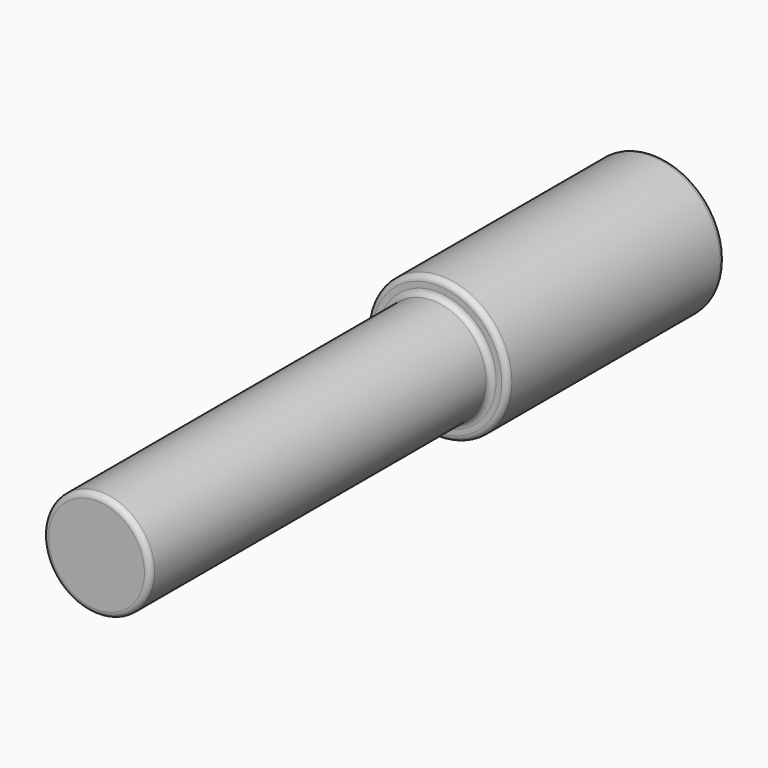
from build123d import *

# Parameters (mm, degrees)
F0_R     = 19
F1_DEPTH = 151
F2_R     = 25
F3_DEPTH = 96.5
F4_R     = 2


with BuildPart() as f1:
    # F0 (on Front) → F1 (new body)
    with BuildSketch(Plane.XZ):
        Circle(F0_R)
    extrude(amount=F1_DEPTH)

    # F2 (on Front) → F3 (join)
    with BuildSketch(Plane.XZ):
        with Locations((-0.022302, 0.055295)):
            Circle(F2_R)
    extrude(amount=-F3_DEPTH)

    # F4
    f4_edges = [f1.edges().sort_by_distance(p)[0] for p in [
        (-19, -151, 0),
        (19, -75.5, 0),
        (-19, 0, 0),
        (-25.022302, 0, 0.055295),
        (-25.022302, 96.5, 0.055295),
    ]]
    fillet(f4_edges, radius=F4_R)


solid = f1.part
